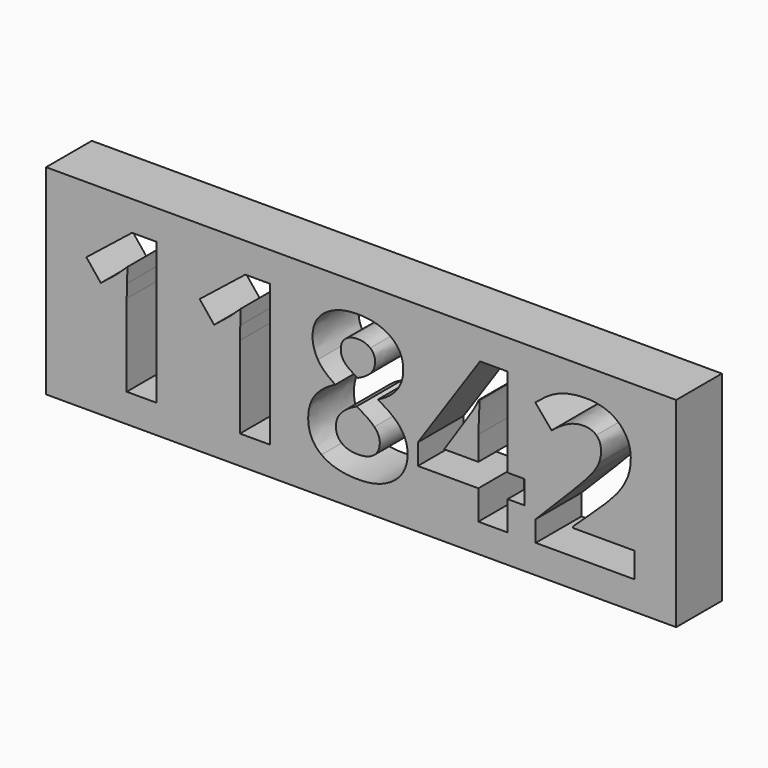
from build123d import *

# Parameters (mm, degrees)
F0_W     = 280.0201171875
F0_H     = 88.9
F1_DEPTH = 25.4


with BuildPart() as f1:
    # F0 (on Front) → F1 (new body)
    with BuildSketch(Plane.XZ):
        with Locations((140.0100585937, 44.45)):
            Rectangle(F0_W, F0_H)
        with BuildLine():
            Line((49.1353298611, 75.6625651042), (49.1353298611, 12.7))
            Line((49.1353298611, 12.7), (35.8234809028, 12.7))
            Line((35.8234809028, 12.7), (35.8234809028, 49.1353298611))
            Line((35.8234809028, 49.1353298611), (35.9612847222, 55.116015625))
            Line((35.9612847222, 55.116015625), (36.1679904514, 61.6616970486))
            add(Edge.make_bspline(
                [(36.1679904514, 61.6616970486), (32.8606987847, 58.3544053819), (31.5653428819, 57.3208767361)],
                knots=[0, 0, 0, 1, 1, 1], degree=2))
            Line((31.5653428819, 57.3208767361), (24.3306423611, 51.5055555556))
            Line((24.3306423611, 51.5055555556), (17.908984375, 59.5119574653))
            Line((17.908984375, 59.5119574653), (38.1937065972, 75.6625651042))
            Line((38.1937065972, 75.6625651042), (49.1353298611, 75.6625651042))
        make_face(mode=Mode.SUBTRACT)
        with BuildLine():
            Line((99.4750651042, 75.6625651042), (99.4750651042, 12.7))
            Line((99.4750651042, 12.7), (86.1632161458, 12.7))
            Line((86.1632161458, 12.7), (86.1632161458, 49.1353298611))
            Line((86.1632161458, 49.1353298611), (86.3010199653, 55.116015625))
            Line((86.3010199653, 55.116015625), (86.5077256944, 61.6616970486))
            add(Edge.make_bspline(
                [(86.5077256944, 61.6616970486), (83.2004340278, 58.3544053819), (81.905078125, 57.3208767361)],
                knots=[0, 0, 0, 1, 1, 1], degree=2))
            Line((81.905078125, 57.3208767361), (74.6703776042, 51.5055555556))
            Line((74.6703776042, 51.5055555556), (68.2487196181, 59.5119574653))
            Line((68.2487196181, 59.5119574653), (88.5334418403, 75.6625651042))
            Line((88.5334418403, 75.6625651042), (99.4750651042, 75.6625651042))
        make_face(mode=Mode.SUBTRACT)
        with BuildLine():
            add(Edge.make_bspline(
                [(124.0179253472, 72.3001519097), (129.6127604167, 76.4756076389), (138.6113498264, 76.4756076389)],
                knots=[0, 0, 0, 1, 1, 1], degree=2))
            add(Edge.make_bspline(
                [(138.6113498264, 76.4756076389), (147.6650607639, 76.4756076389), (153.1978841146, 72.3621636285)],
                knots=[0, 0, 0, 1, 1, 1], degree=2))
            add(Edge.make_bspline(
                [(153.1978841146, 72.3621636285), (158.7307074653, 68.2487196181), (158.7307074653, 61.2758463542)],
                knots=[0, 0, 0, 1, 1, 1], degree=2))
            add(Edge.make_bspline(
                [(158.7307074653, 61.2758463542), (158.7307074653, 56.4527126736), (156.0573133681, 52.6837782118)],
                knots=[0, 0, 0, 1, 1, 1], degree=2))
            add(Edge.make_bspline(
                [(156.0573133681, 52.6837782118), (153.3839192708, 48.91484375), (147.4445746528, 45.9520616319)],
                knots=[0, 0, 0, 1, 1, 1], degree=2))
            add(Edge.make_bspline(
                [(147.4445746528, 45.9520616319), (154.5001302083, 42.1624565972), (157.5800455729, 38.0490125868)],
                knots=[0, 0, 0, 1, 1, 1], degree=2))
            add(Edge.make_bspline(
                [(157.5800455729, 38.0490125868), (160.6599609375, 33.9355685764), (160.6599609375, 29.0159722222)],
                knots=[0, 0, 0, 1, 1, 1], degree=2))
            add(Edge.make_bspline(
                [(160.6599609375, 29.0159722222), (160.6599609375, 21.2713975694), (154.589702691, 16.5516167535)],
                knots=[0, 0, 0, 1, 1, 1], degree=2))
            add(Edge.make_bspline(
                [(154.589702691, 16.5516167535), (148.5194444444, 11.8318359375), (138.6113498264, 11.8318359375)],
                knots=[0, 0, 0, 1, 1, 1], degree=2))
            add(Edge.make_bspline(
                [(138.6113498264, 11.8318359375), (128.2760633681, 11.8318359375), (122.3780598958, 16.2277777778)],
                knots=[0, 0, 0, 1, 1, 1], degree=2))
            add(Edge.make_bspline(
                [(122.3780598958, 16.2277777778), (116.4800564236, 20.6237196181), (116.4800564236, 28.6714626736)],
                knots=[0, 0, 0, 1, 1, 1], degree=2))
            add(Edge.make_bspline(
                [(116.4800564236, 28.6714626736), (116.4800564236, 34.0595920139), (119.3463758681, 38.2350477431)],
                knots=[0, 0, 0, 1, 1, 1], degree=2))
            add(Edge.make_bspline(
                [(119.3463758681, 38.2350477431), (122.2126953125, 42.4105034722), (128.537890625, 45.6075520833)],
                knots=[0, 0, 0, 1, 1, 1], degree=2))
            add(Edge.make_bspline(
                [(128.537890625, 45.6075520833), (123.1497612847, 48.9975260417), (120.7864257812, 52.876703559)],
                knots=[0, 0, 0, 1, 1, 1], degree=2))
            add(Edge.make_bspline(
                [(120.7864257812, 52.876703559), (118.4230902778, 56.7558810764), (118.4230902778, 61.3585286458)],
                knots=[0, 0, 0, 1, 1, 1], degree=2))
            add(Edge.make_bspline(
                [(118.4230902778, 61.3585286458), (118.4230902778, 68.1246961806), (124.0179253472, 72.3001519097)],
                knots=[0, 0, 0, 1, 1, 1], degree=2))
        make_face(mode=Mode.SUBTRACT)
        Polygon((212.6809027778, 36.0853081597), (212.6809027778, 25.7500217014), (205.1016927083, 25.7500217014), (205.1016927083, 12.7), (192.0930121528, 12.7), (192.0930121528, 25.7500217014), (165.2212673611, 25.7500217014), (165.2212673611, 35.0104383681), (192.8371527778, 75.6625651042), (205.1016927083, 75.6625651042), (205.1016927083, 36.0853081597), align=None, mode=Mode.SUBTRACT)
        with BuildLine():
            Line((261.6012586806, 23.9034505208), (261.6012586806, 12.7))
            Line((261.6012586806, 12.7), (217.58671875, 12.7))
            Line((217.58671875, 12.7), (217.58671875, 21.9604166667))
            Line((217.58671875, 21.9604166667), (233.3928168403, 37.9318793403))
            add(Edge.make_bspline(
                [(233.3928168403, 37.9318793403), (240.4208116319, 45.1252387153), (242.5705512153, 47.9019856771)],
                knots=[0, 0, 0, 1, 1, 1], degree=2))
            add(Edge.make_bspline(
                [(242.5705512153, 47.9019856771), (244.7202907986, 50.6787326389), (245.6711371528, 53.0489583333)],
                knots=[0, 0, 0, 1, 1, 1], degree=2))
            add(Edge.make_bspline(
                [(245.6711371528, 53.0489583333), (246.6219835069, 55.4191840278), (246.6219835069, 57.9547743056)],
                knots=[0, 0, 0, 1, 1, 1], degree=2))
            add(Edge.make_bspline(
                [(246.6219835069, 57.9547743056), (246.6219835069, 61.7443793403), (244.5273654514, 63.5978407118)],
                knots=[0, 0, 0, 1, 1, 1], degree=2))
            add(Edge.make_bspline(
                [(244.5273654514, 63.5978407118), (242.4327473958, 65.4513020833), (238.9463107639, 65.4513020833)],
                knots=[0, 0, 0, 1, 1, 1], degree=2))
            add(Edge.make_bspline(
                [(238.9463107639, 65.4513020833), (235.2945095486, 65.4513020833), (231.8494140625, 63.7700954861)],
                knots=[0, 0, 0, 1, 1, 1], degree=2))
            add(Edge.make_bspline(
                [(231.8494140625, 63.7700954861), (228.4043185764, 62.0888888889), (224.6560546875, 58.9883029514)],
                knots=[0, 0, 0, 1, 1, 1], degree=2))
            Line((224.6560546875, 58.9883029514), (217.4213541667, 67.5597005208))
            add(Edge.make_bspline(
                [(217.4213541667, 67.5597005208), (222.0653428819, 71.5284505208), (225.1245876736, 73.1614257813)],
                knots=[0, 0, 0, 1, 1, 1], degree=2))
            add(Edge.make_bspline(
                [(225.1245876736, 73.1614257813), (228.1838324653, 74.7944010417), (231.8011827257, 75.6763454861)],
                knots=[0, 0, 0, 1, 1, 1], degree=2))
            add(Edge.make_bspline(
                [(231.8011827257, 75.6763454861), (235.4185329861, 76.5582899306), (239.8971571181, 76.5582899306)],
                knots=[0, 0, 0, 1, 1, 1], degree=2))
            add(Edge.make_bspline(
                [(239.8971571181, 76.5582899306), (245.7951605903, 76.5582899306), (250.3151258681, 74.4085503472)],
                knots=[0, 0, 0, 1, 1, 1], degree=2))
            add(Edge.make_bspline(
                [(250.3151258681, 74.4085503472), (254.8350911458, 72.2588107639), (257.3362304687, 68.3796332465)],
                knots=[0, 0, 0, 1, 1, 1], degree=2))
            add(Edge.make_bspline(
                [(257.3362304687, 68.3796332465), (259.8373697917, 64.5004557292), (259.8373697917, 59.5119574653)],
                knots=[0, 0, 0, 1, 1, 1], degree=2))
            add(Edge.make_bspline(
                [(259.8373697917, 59.5119574653), (259.8373697917, 55.1573567708), (258.3077473958, 51.3470811632)],
                knots=[0, 0, 0, 1, 1, 1], degree=2))
            add(Edge.make_bspline(
                [(258.3077473958, 51.3470811632), (256.778125, 47.5368055556), (253.5672960069, 43.5336046007)],
                knots=[0, 0, 0, 1, 1, 1], degree=2))
            add(Edge.make_bspline(
                [(253.5672960069, 43.5336046007), (250.3564670139, 39.5304036458), (242.2673828125, 32.1165581597)],
                knots=[0, 0, 0, 1, 1, 1], degree=2))
            Line((242.2673828125, 32.1165581597), (234.1645182292, 24.4960069444))
            Line((234.1645182292, 24.4960069444), (234.1645182292, 23.9034505208))
            Line((234.1645182292, 23.9034505208), (261.6012586806, 23.9034505208))
        make_face(mode=Mode.SUBTRACT)
    extrude(amount=F1_DEPTH)


with BuildPart() as f1b:
    # F0 (on Front) → F1, piece 2 (new body)
    with BuildSketch(Plane.XZ):
        with BuildLine():
            Line((176.9345920139, 36.0853081597), (192.0930121528, 36.0853081597))
            Line((192.0930121528, 36.0853081597), (192.0930121528, 46.7651041667))
            add(Edge.make_bspline(
                [(192.0930121528, 46.7651041667), (192.0930121528, 49.4384982639), (192.3134982639, 54.5165690104)],
                knots=[0, 0, 0, 1, 1, 1], degree=2))
            add(Edge.make_bspline(
                [(192.3134982639, 54.5165690104), (192.533984375, 59.5946397569), (192.6580078125, 60.4214626736)],
                knots=[0, 0, 0, 1, 1, 1], degree=2))
            Line((192.6580078125, 60.4214626736), (192.3134982639, 60.4214626736))
            add(Edge.make_bspline(
                [(192.3134982639, 60.4214626736), (190.7149739583, 56.8799045139), (188.4825520833, 53.5312717014)],
                knots=[0, 0, 0, 1, 1, 1], degree=2))
            Line((188.4825520833, 53.5312717014), (176.9345920139, 36.0853081597))
        make_face()
    extrude(amount=F1_DEPTH)


with BuildPart() as f1c:
    # F0 (on Front) → F1, piece 3 (new body)
    with BuildSketch(Plane.XZ):
        with BuildLine():
            add(Edge.make_bspline(
                [(137.963671875, 40.1367404514), (128.7997178819, 35.9061631944), (128.7997178819, 29.4569444444)],
                knots=[0, 0, 0, 1, 1, 1], degree=2))
            add(Edge.make_bspline(
                [(128.7997178819, 29.4569444444), (128.7997178819, 25.7500217014), (131.3835394965, 23.6829644097)],
                knots=[0, 0, 0, 1, 1, 1], degree=2))
            add(Edge.make_bspline(
                [(131.3835394965, 23.6829644097), (133.9673611111, 21.6159071181), (138.4459852431, 21.6159071181)],
                knots=[0, 0, 0, 1, 1, 1], degree=2))
            add(Edge.make_bspline(
                [(138.4459852431, 21.6159071181), (143.3931423611, 21.6159071181), (145.8460503472, 23.7449761285)],
                knots=[0, 0, 0, 1, 1, 1], degree=2))
            add(Edge.make_bspline(
                [(145.8460503472, 23.7449761285), (148.2989583333, 25.8740451389), (148.2989583333, 29.3604817708)],
                knots=[0, 0, 0, 1, 1, 1], degree=2))
            add(Edge.make_bspline(
                [(148.2989583333, 29.3604817708), (148.2989583333, 32.2543619792), (145.8667209201, 34.769281684)],
                knots=[0, 0, 0, 1, 1, 1], degree=2))
            add(Edge.make_bspline(
                [(145.8667209201, 34.769281684), (143.4344835069, 37.2842013889), (137.963671875, 40.1367404514)],
                knots=[0, 0, 0, 1, 1, 1], degree=2))
        make_face()
    extrude(amount=F1_DEPTH)


with BuildPart() as f1d:
    # F0 (on Front) → F1, piece 4 (new body)
    with BuildSketch(Plane.XZ):
        with BuildLine():
            add(Edge.make_bspline(
                [(144.0408203125, 65.0241102431), (141.8910807292, 66.7466579861), (138.5286675347, 66.7466579861)],
                knots=[0, 0, 0, 1, 1, 1], degree=2))
            add(Edge.make_bspline(
                [(138.5286675347, 66.7466579861), (135.1249131944, 66.7466579861), (133.0371853299, 65.0034396701)],
                knots=[0, 0, 0, 1, 1, 1], degree=2))
            add(Edge.make_bspline(
                [(133.0371853299, 65.0034396701), (130.9494574653, 63.2602213542), (130.9494574653, 60.325)],
                knots=[0, 0, 0, 1, 1, 1], degree=2))
            add(Edge.make_bspline(
                [(130.9494574653, 60.325), (130.9494574653, 57.7480685764), (132.6099934896, 55.7016818576)],
                knots=[0, 0, 0, 1, 1, 1], degree=2))
            add(Edge.make_bspline(
                [(132.6099934896, 55.7016818576), (134.2705295139, 53.6552951389), (138.6113498264, 51.5055555556)],
                knots=[0, 0, 0, 1, 1, 1], degree=2))
            add(Edge.make_bspline(
                [(138.6113498264, 51.5055555556), (142.8419270833, 53.4761501736), (144.5162434896, 55.5432074653)],
                knots=[0, 0, 0, 1, 1, 1], degree=2))
            add(Edge.make_bspline(
                [(144.5162434896, 55.5432074653), (146.1905598958, 57.6102647569), (146.1905598958, 60.325)],
                knots=[0, 0, 0, 1, 1, 1], degree=2))
            add(Edge.make_bspline(
                [(146.1905598958, 60.325), (146.1905598958, 63.3015625), (144.0408203125, 65.0241102431)],
                knots=[0, 0, 0, 1, 1, 1], degree=2))
        make_face()
    extrude(amount=F1_DEPTH)


solid = Compound([f1.part, f1b.part, f1c.part, f1d.part])
